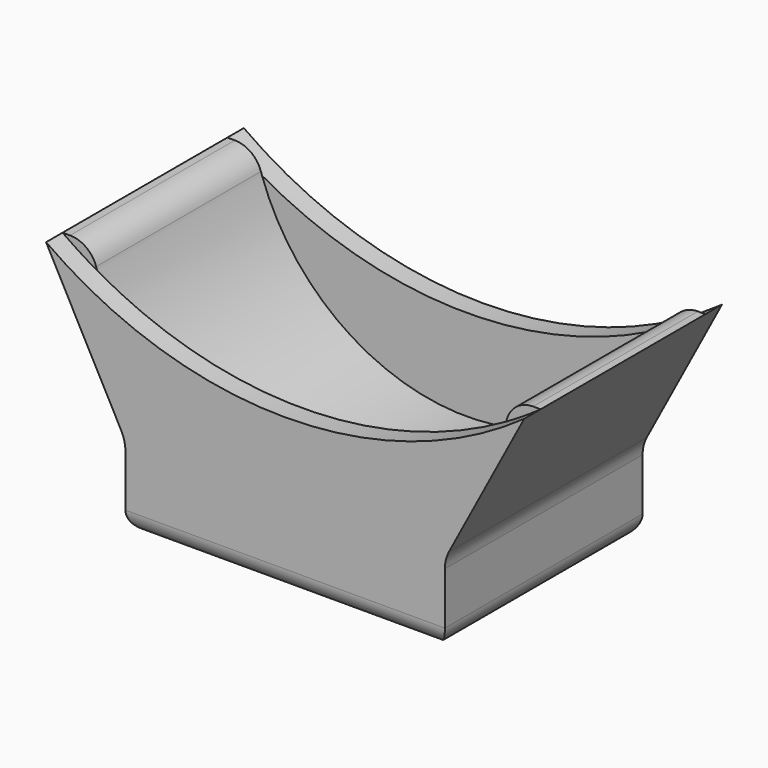
from build123d import *

# Parameters (mm, degrees)
F1_DEPTH = 30
F3_DEPTH = 3
F5_DEPTH = 3
F6_R     = 4
F7_R     = 3
F8_R     = 5.1


with BuildPart() as f1:
    # F0 (on Front) → F1 (new body)
    with BuildSketch(Plane.XZ):
        with BuildLine():
            Line((-23.262718, 0), (0, 0))
            Line((0, 0), (23.262718, 0))
            Line((23.262718, 0), (23.262718, 11.85973))
            Line((23.262718, 11.85973), (34.820285, 33.596352))
            Line((34.820285, 33.596352), (30.695623, 33.596352))
            ThreePointArc((30.695623, 33.596352), (0, 9.169452), (-30.695623, 33.596352))
            Line((-30.695623, 33.596352), (-34.820285, 33.596352))
            Line((-34.820285, 33.596352), (-23.262718, 11.85973))
            Line((-23.262718, 11.85973), (-23.262718, 0))
        make_face()
    extrude(amount=F1_DEPTH)

    # F2 (on face) → F3 (join)
    with BuildSketch(Plane.XZ.offset(30)):
        with BuildLine():
            ThreePointArc((34.820285, 33.596352), (0, 22.458891), (-34.820285, 33.596352))
            Line((-34.820285, 33.596352), (-23.262718, 11.85973))
            Line((-23.262718, 11.85973), (-23.262718, 0))
            Line((-23.262718, 0), (23.262718, 0))
            Line((23.262718, 0), (23.262718, 11.85973))
            Line((23.262718, 11.85973), (34.820285, 33.596352))
        make_face()
    extrude(amount=F3_DEPTH)

    # F4 (on face) → F5 (join)
    with BuildSketch(Plane(origin=(0, 0, 0), x_dir=(-1, 0, 0), z_dir=(0, 1, 0))):
        with BuildLine():
            ThreePointArc((34.820285, 33.596352), (0, 22.458891), (-34.820285, 33.596352))
            Line((-34.820285, 33.596352), (-23.262718, 11.85973))
            Line((-23.262718, 11.85973), (-23.262718, 0))
            Line((-23.262718, 0), (23.262718, 0))
            Line((23.262718, 0), (23.262718, 11.85973))
            Line((23.262718, 11.85973), (34.820285, 33.596352))
        make_face()
    extrude(amount=F5_DEPTH)

    # F6
    f6_edges = [f1.edges().sort_by_distance(p)[0] for p in [
        (30.695623, -15, 33.596352),
        (-30.695623, -15, 33.596352),
    ]]
    fillet(f6_edges, radius=F6_R)

    # F7
    f7_edges = [f1.edges().sort_by_distance(p)[0] for p in [
        (23.262718, -15, 0),
        (0, 3, 0),
        (-23.262718, -15, 0),
        (0, -33, 0),
    ]]
    fillet(f7_edges, radius=F7_R)

    # F8
    f8_edges = [f1.edges().sort_by_distance(p)[0] for p in [
        (-23.262718, -15, 11.85973),
        (23.262718, -15, 11.85973),
    ]]
    fillet(f8_edges, radius=F8_R)


solid = f1.part
